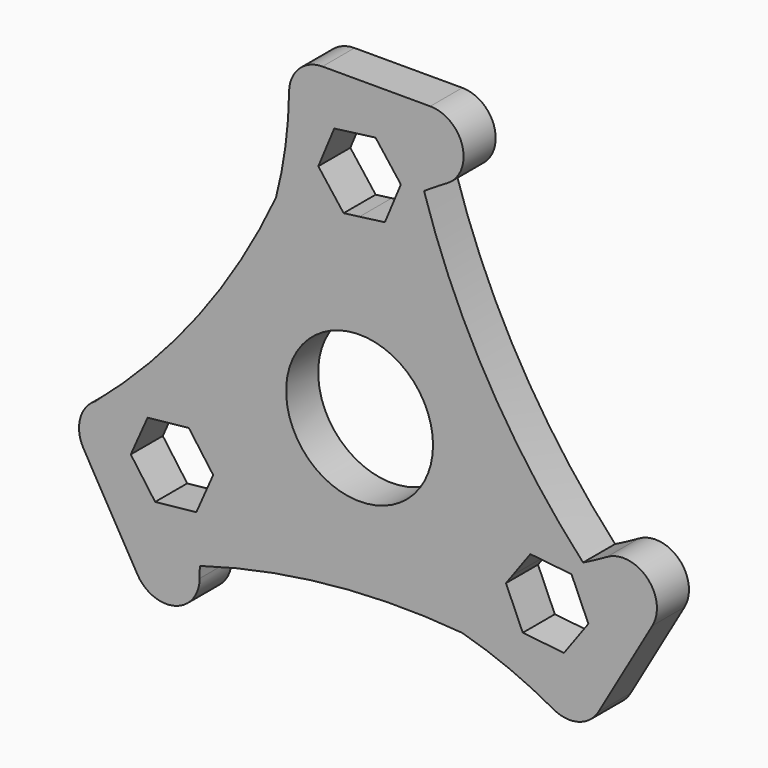
from build123d import *

# Parameters (mm, degrees)
F0_R     = 11
F1_DEPTH = 3


with BuildPart() as f1:
    # F0 (on Front) → F1 (new body, symmetric)
    with BuildSketch(Plane.XZ):
        with BuildLine():
            ThreePointArc((13.091594, 35.215377), (15.413694, 40.839465), (10.585045, 44.541717))
            Line((10.585045, 44.541717), (-5.556075, 44.541717))
            ThreePointArc((-5.556075, 44.541717), (-9.068174, 43.100531), (-10.555639, 39.607781))
            ThreePointArc((-10.555639, 39.607781), (-11.098737, 32.23023), (-12.52502, 24.971516))
            ThreePointArc((-12.52502, 24.971516), (-24.124845, 5.691327), (-39.579164, -10.662439))
            ThreePointArc((-39.579164, -10.662439), (-41.860242, -13.696996), (-41.352296, -17.459156))
            Line((-41.352296, -17.459156), (-33.281736, -31.437776))
            ThreePointArc((-33.281736, -31.437776), (-27.661168, -33.768383), (-23.951614, -28.945342))
            ThreePointArc((-23.951614, -28.945342), (-23.944714, -28.112998), (-23.926531, -27.280824))
            ThreePointArc((-23.926531, -27.280824), (-4.469508, -23.436159), (15.363457, -23.332743))
            ThreePointArc((15.363457, -23.332743), (22.362829, -25.726903), (29.023525, -28.945342))
            ThreePointArc((29.023525, -28.945342), (32.792068, -29.403535), (35.79622, -27.082561))
            Line((35.79622, -27.082561), (43.86678, -13.10394))
            ThreePointArc((43.86678, -13.10394), (43.074861, -7.071082), (37.043208, -6.270036))
            ThreePointArc((37.043208, -6.270036), (35.274041, -7.249485), (33.473584, -8.170152))
            ThreePointArc((33.473584, -8.170152), (19.248618, 11.113195), (9.661233, 33.07405))
            ThreePointArc((9.661233, 33.07405), (11.358782, 34.172958), (13.091594, 35.215377))
        make_face()
        Polygon((-30.615118, -21.017243), (-34.27078, -15.948025), (-31.748977, -10.276928), (-25.576762, -9.625325), (-22.943373, -13.246362), (-21.926349, -14.64482), (-24.442903, -20.36564), align=None, mode=Mode.SUBTRACT)
        Circle(F0_R, mode=Mode.SUBTRACT)
        Polygon((22.943373, -13.246362), (25.576762, -9.625325), (31.748977, -10.276928), (34.265531, -15.997749), (30.615118, -21.017243), (24.442903, -20.36564), (21.926349, -14.64482), align=None, mode=Mode.SUBTRACT)
        Polygon((6.182559, 32.802254), (3.792685, 27.043044), (0.003247, 26.546629), (-2.389875, 26.233131), (-6.182559, 31.182428), (-3.792685, 36.941638), (2.389875, 37.751551), align=None, mode=Mode.SUBTRACT)
    extrude(amount=F1_DEPTH, both=True)


solid = f1.part
